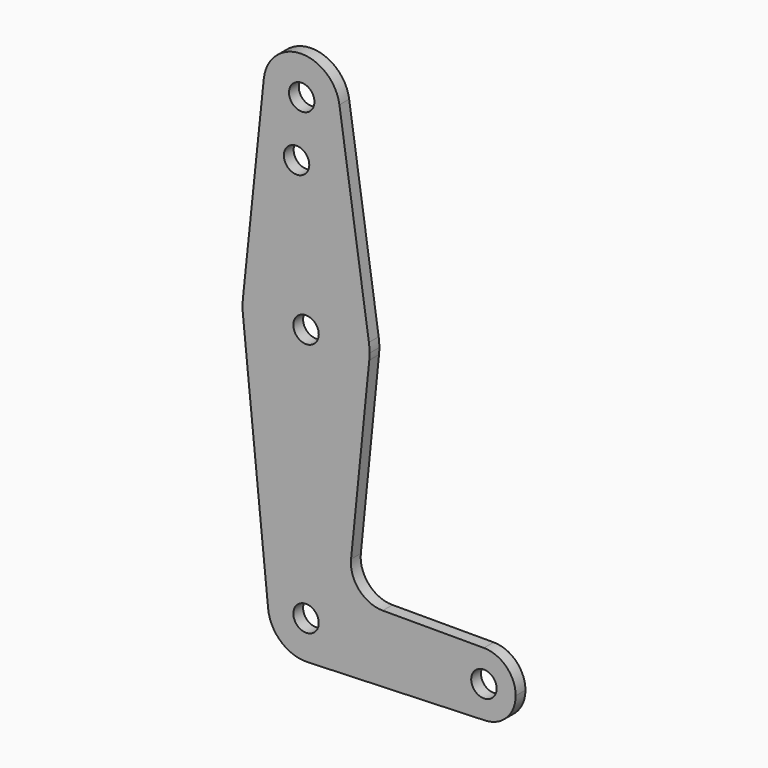
from build123d import *

# Parameters (mm, degrees)
F0_R     = 3.175
F1_DEPTH = 3.048


with BuildPart() as f1:
    # F0 (on Front) → F1 (new body)
    with BuildSketch(Plane.XZ):
        with BuildLine():
            ThreePointArc((8.337014, 115.692012), (-1.289246, 123.822825), (-10.559325, 115.288151))
            ThreePointArc((-10.559325, 115.288151), (-1.580463, 104.787858), (8.43928, 114.3))
            ThreePointArc((8.43928, 114.3), (8.413679, 114.997882), (8.337014, 115.692012))
        make_face()
        with Locations((-1.08572, 114.3)):
            Circle(F0_R, mode=Mode.SUBTRACT)
        with BuildLine():
            Line((-10.559325, 115.288151), (-15.789341, 65.146918))
            ThreePointArc((-15.789341, 65.146918), (-0.33921, 79.371376), (15.704558, 65.82002))
            Line((15.704558, 65.82002), (8.337014, 115.692012))
            ThreePointArc((8.337014, 115.692012), (8.413679, 114.997882), (8.43928, 114.3))
            ThreePointArc((8.43928, 114.3), (-1.580463, 104.787858), (-10.559325, 115.288151))
        make_face()
        with Locations((-2.368495, 100.0252)):
            Circle(F0_R, mode=Mode.SUBTRACT)
        with BuildLine():
            ThreePointArc((-15.795426, 61.9125), (0, 47.625), (15.795426, 61.9125))
            ThreePointArc((15.795426, 61.9125), (15.855094, 62.705253), (15.875, 63.5))
            ThreePointArc((15.875, 63.5), (15.832332, 64.663136), (15.704558, 65.82002))
            ThreePointArc((15.704558, 65.82002), (-0.33921, 79.371376), (-15.789341, 65.146918))
            ThreePointArc((-15.789341, 65.146918), (-15.874972, 63.529864), (-15.795426, 61.9125))
        make_face()
        with Locations((0, 63.5)):
            Circle(F0_R, mode=Mode.SUBTRACT)
        with BuildLine():
            ThreePointArc((44.733482, -7.932436), (36.513766, -0.141764), (44.45, 7.9375))
            Line((44.45, 7.9375), (19.160011, 7.9375))
            ThreePointArc((19.160011, 7.9375), (13.263985, 10.554544), (11.249662, 16.68272))
            Line((11.249662, 16.68272), (15.795426, 61.9125))
            ThreePointArc((15.795426, 61.9125), (0, 47.625), (-15.795426, 61.9125))
            Line((-15.795426, 61.9125), (-9.477255, -0.9525))
            ThreePointArc((-9.477255, -0.9525), (-0.476848, 9.513056), (9.525, 0))
            ThreePointArc((9.525, 0), (6.854408, -6.613827), (0.340179, -9.518923))
            Line((0.340179, -9.518923), (44.733482, -7.932436))
        make_face()
        with BuildLine():
            ThreePointArc((-9.477255, -0.9525), (-6.262383, -7.17692), (0.340179, -9.518923))
            ThreePointArc((0.340179, -9.518923), (6.854408, -6.613827), (9.525, 0))
            ThreePointArc((9.525, 0), (-0.476848, 9.513056), (-9.477255, -0.9525))
        make_face()
        Circle(F0_R, mode=Mode.SUBTRACT)
        with BuildLine():
            ThreePointArc((44.733482, -7.932436), (50.162007, -5.511523), (52.3875, 0))
            ThreePointArc((52.3875, 0), (50.06266, 5.61266), (44.45, 7.9375))
            ThreePointArc((44.45, 7.9375), (36.513766, -0.141764), (44.733482, -7.932436))
        make_face()
        with Locations((44.45, 0)):
            Circle(F0_R, mode=Mode.SUBTRACT)
    extrude(amount=F1_DEPTH)


solid = f1.part
